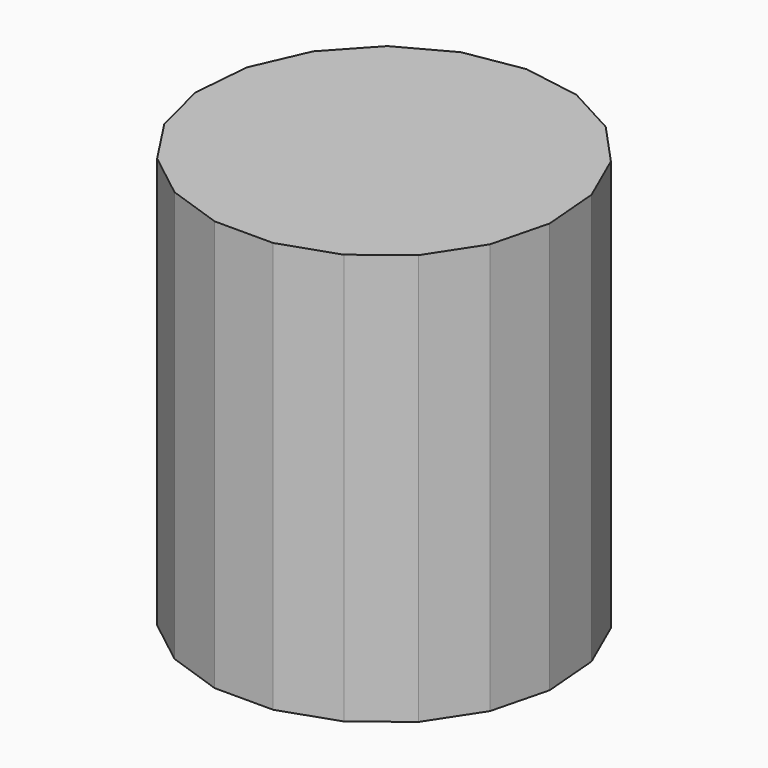
from build123d import *

# Parameters (mm, degrees)
F1_DEPTH = 76.2


with BuildPart() as f1:
    # F0 (on Top) → F1 (new body)
    with BuildSketch(Plane.XY):
        Polygon((-5.426587, -15.201226), (5.426587, -15.201226), (15.691705, -11.677206), (24.256383, -5.011049), (30.192506, 4.074863), (32.856803, 14.595932), (31.960555, 25.412036), (27.600885, 35.351083), (20.250231, 43.336021), (10.70515, 48.501561), (0, 50.287934), (-10.70515, 48.501561), (-20.250231, 43.336021), (-27.600885, 35.351083), (-31.960555, 25.412036), (-32.856803, 14.595932), (-30.192506, 4.074863), (-24.256383, -5.011049), (-15.691705, -11.677206), align=None)
    extrude(amount=F1_DEPTH)


solid = f1.part
